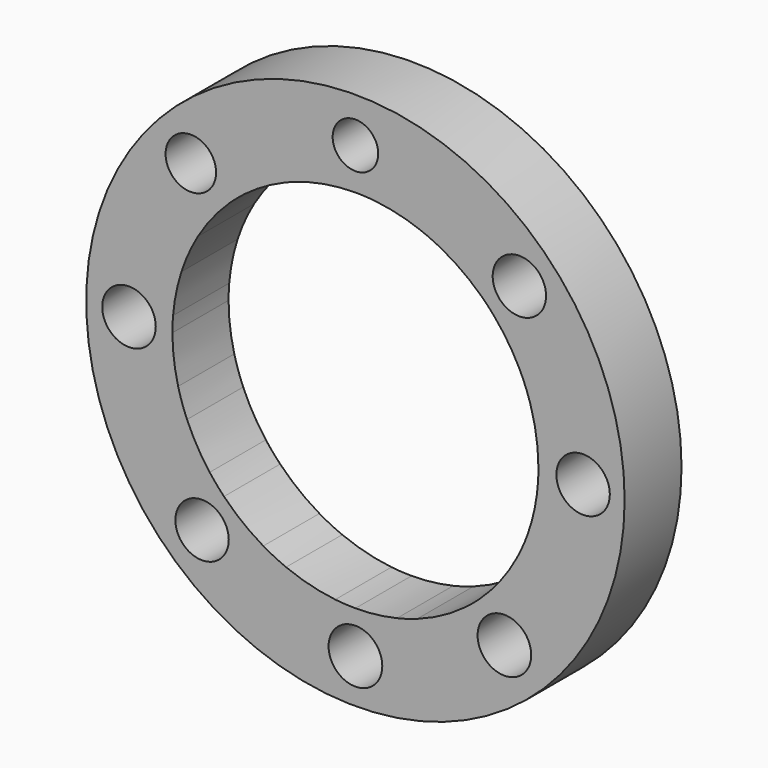
from build123d import *

# Parameters (mm, degrees)
F0_R     = 75.961814
F0_R_2   = 59.912774
F1_DEPTH = 20.066
F2_R     = 7.541578
F2_R_2   = 7.528696
F2_R_3   = 6.425278
F2_R_4   = 7.130382
F2_R_5   = 7.551866
F2_R_6   = 7.528699
F2_R_7   = 7.576505
F2_R_8   = 7.567783
F3_DEPTH = 20.067
F4_SIZE  = 0.254


with BuildPart() as f1:
    # F0 (on Front) → F1 (new body)
    with BuildSketch(Plane.XZ):
        Circle(F0_R)
        Circle(F0_R_2, mode=Mode.SUBTRACT)
        Circle(F0_R_2)
        with BuildLine():
            ThreePointArc((49.361188, 15.14638), (51.061693, 7.657884), (51.632738, 0))
            ThreePointArc((51.632738, 0), (51.517245, -3.451544), (51.171281, -6.887647))
            ThreePointArc((51.171281, -6.887647), (50.183668, -12.146567), (48.657094, -17.275036))
            ThreePointArc((48.657094, -17.275036), (47.264303, -20.785219), (45.618675, -24.184213))
            ThreePointArc((45.618675, -24.184213), (40.849348, -31.579588), (34.893463, -38.057665))
            ThreePointArc((34.893463, -38.057665), (33.054915, -39.665), (31.142422, -41.183604))
            ThreePointArc((31.142422, -41.183604), (24.563545, -45.415547), (17.420865, -48.605073))
            ThreePointArc((17.420865, -48.605073), (14.606221, -49.523711), (11.74355, -50.279506))
            ThreePointArc((11.74355, -50.279506), (5.91063, -51.293314), (0, -51.632738))
            ThreePointArc((0, -51.632738), (-2.846774, -51.5542), (-5.684887, -51.318824))
            ThreePointArc((-5.684887, -51.318824), (-12.748176, -50.034225), (-19.565006, -47.782321))
            ThreePointArc((-19.565006, -47.782321), (-22.836173, -46.308194), (-25.997065, -44.61045))
            ThreePointArc((-25.997065, -44.61045), (-31.835901, -40.649908), (-37.080304, -35.930359))
            ThreePointArc((-37.080304, -35.930359), (-39.170155, -33.639837), (-41.118749, -31.228002))
            ThreePointArc((-41.118749, -31.228002), (-44.659518, -25.912682), (-47.516984, -20.200889))
            ThreePointArc((-47.516984, -20.200889), (-48.91063, -16.543575), (-50.023242, -12.791203))
            ThreePointArc((-50.023242, -12.791203), (-51.228784, -6.446033), (-51.632738, 0))
            ThreePointArc((-51.632738, 0), (-51.586992, 2.172995), (-51.449835, 4.342139))
            ThreePointArc((-51.449835, 4.342139), (-50.606227, 10.244482), (-49.087805, 16.010218))
            ThreePointArc((-49.087805, 16.010218), (-47.043655, 21.2799), (-44.435744, 26.294567))
            ThreePointArc((-44.435744, 26.294567), (-40.383346, 32.173359), (-35.558677, 37.436882))
            ThreePointArc((-35.558677, 37.436882), (-33.415529, 39.361683), (-31.168373, 41.163967))
            ThreePointArc((-31.168373, 41.163967), (-25.80143, 44.723884), (-20.033066, 47.587981))
            ThreePointArc((-20.033066, 47.587981), (-16.643542, 48.876704), (-13.171924, 49.924344))
            ThreePointArc((-13.171924, 49.924344), (-6.641125, 51.203858), (0, 51.632738))
            ThreePointArc((0, 51.632738), (2.762171, 51.558802), (5.516431, 51.337205))
            ThreePointArc((5.516431, 51.337205), (12.101384, 50.194583), (18.483581, 48.210962))
            ThreePointArc((18.483581, 48.210962), (21.402325, 46.988085), (24.240673, 45.588698))
            ThreePointArc((24.240673, 45.588698), (30.176209, 41.896731), (35.558677, 37.436882))
            ThreePointArc((35.558677, 37.436882), (37.323996, 35.677149), (39.002331, 33.83427))
            ThreePointArc((39.002331, 33.83427), (42.886907, 28.751571), (46.113144, 23.227518))
            ThreePointArc((46.113144, 23.227518), (47.907861, 19.255557), (49.361188, 15.14638))
        make_face(mode=Mode.SUBTRACT)
    extrude(amount=F1_DEPTH)

    # F2 (on Front) → F3 (cut, through all)
    with BuildSketch(Plane.XZ):
        with Locations((64.237103, 0)):
            Circle(F2_R)
        with Locations((46.261288, 43.441553)):
            Circle(F2_R_2)
        with Locations((0, 63.355938)):
            Circle(F2_R_3)
        with Locations((-46.437524, 43.794021)):
            Circle(F2_R_4)
        with Locations((-63.884638, 0)):
            Circle(F2_R_5)
        with Locations((-43.26532, -46.261288)):
            Circle(F2_R_6)
        with Locations((0, -63.532166)):
            Circle(F2_R_7)
        with Locations((42.031687, -47.142457)):
            Circle(F2_R_8)
    extrude(amount=F3_DEPTH, mode=Mode.SUBTRACT)

    # F4
    f4_edges = [f1.edges().sort_by_distance(p)[0] for p in [
        (-31.142422, 0, 41.183604),
    ]]
    chamfer(f4_edges, length=F4_SIZE)


solid = f1.part
